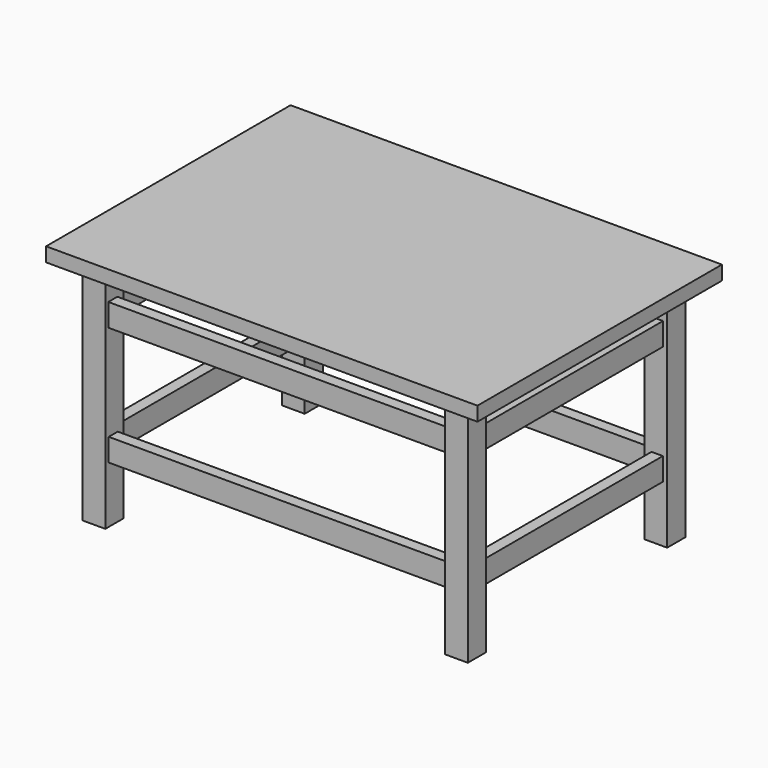
from build123d import *

# Parameters (mm, degrees)
F0_W     = 20
F0_H     = 20
F1_DEPTH = 400
F3_W     = 18.432826
F3_H     = 426.123023
F3_W_2   = 640.000152
F3_H_2   = 20
F3_W_3   = 20
F3_H_3   = 411.485196
F3_W_4   = 633.763074
F4_DEPTH = 40
F6_W     = 20
F6_H     = 436.839668
F6_H_2   = 11.878408
F6_H_3   = 430.427
F6_W_2   = 616.611719
F6_H_4   = 20
F7_DEPTH = 40
F8_W     = 761.578858
F8_H     = 539.486886
F9_DEPTH = 25


with BuildPart() as f1:
    # F0 (on Top) → F1 (new body)
    with BuildSketch(Plane.XY):
        Polygon((-320, 220), (-300, 220), (-300, 240), (-340, 240), (-340, 200), (-320, 200), align=None)
        with Locations((-310, 210)):
            Rectangle(F0_W, F0_H)
        with Locations((310, 210)):
            Rectangle(F0_W, F0_H)
        Polygon((300, 220), (320, 220), (320, 200), (340, 200), (340, 240), (300, 240), align=None)
        with Locations((310, -210)):
            Rectangle(F0_W, F0_H)
        Polygon((340, -200), (320, -200), (320, -220), (300, -220), (300, -240), (340, -240), align=None)
        with Locations((-310, -210)):
            Rectangle(F0_W, F0_H)
        Polygon((-320, -220), (-320, -200), (-340, -200), (-340, -240), (-300, -240), (-300, -220), align=None)
    extrude(amount=-F1_DEPTH)


with BuildPart() as f4:
    # F3 (on offset) → F4 (new body)
    with BuildSketch(Plane.XY.offset(-50)):
        with Locations((-320.67655, -8.403197)):
            Rectangle(F3_W, F3_H)
        with Locations((1.897499, 219.296135)):
            Rectangle(F3_W_2, F3_H_2)
        with Locations((322.603663, -0.542134)):
            Rectangle(F3_W_3, F3_H_3)
        with Locations((11.384964, -223.391806)):
            Rectangle(F3_W_4, F3_H_2)
    extrude(amount=-F4_DEPTH)


with BuildPart() as f7:
    # F6 (on offset) → F7 (new body)
    with BuildSketch(Plane.XY.offset(-300)):
        with Locations((322.319761, 5.939204)):
            Rectangle(F6_W, F6_H)
        with Locations((322.319761, -218.419834)):
            Rectangle(F6_W, F6_H_2)
        Polygon((312.319761, -224.359038), (312.319761, -212.48063), (-327.074468, -212.48063), (-327.074468, -232.48063), (332.319761, -232.48063), (332.319761, -224.359038), align=None)
        with Locations((-324.081411, 7.757686)):
            Rectangle(F6_W, F6_H_3)
        with Locations((-1.751721, 219.9583)):
            Rectangle(F6_W_2, F6_H_4)
    extrude(amount=F7_DEPTH)


with BuildPart() as f9:
    # F8 (on Top) → F9 (new body)
    with BuildSketch(Plane.XY):
        Rectangle(F8_W, F8_H)
    extrude(amount=F9_DEPTH)


solid = Compound([f1.part, f4.part, f7.part, f9.part])
